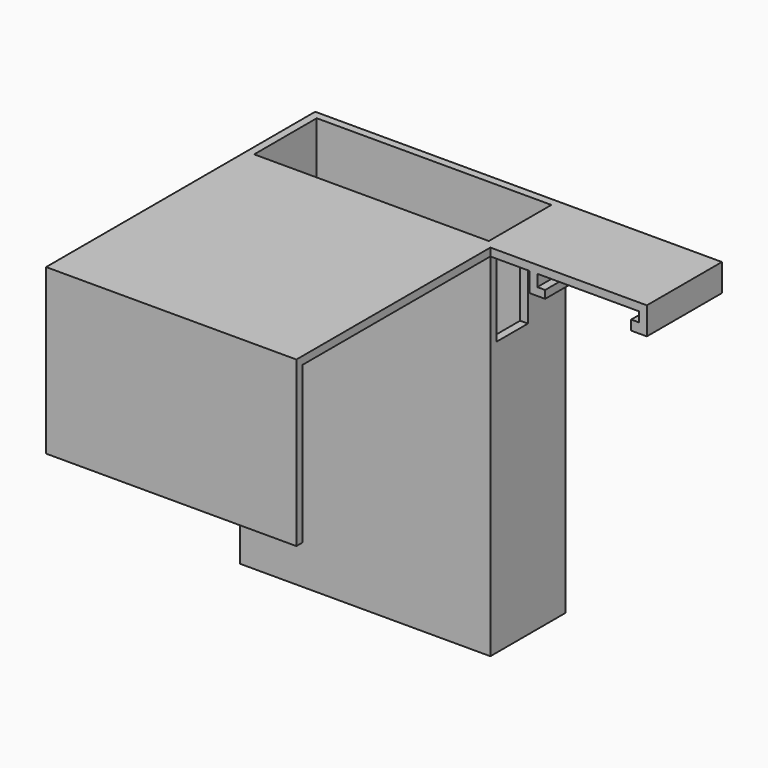
from build123d import *

# Parameters (mm, degrees)
F0_W      = 64
F0_H      = 64
F1_DEPTH  = 2
F2_W      = 64
F2_H      = 2
F3_DEPTH  = 25
F4_W      = 64
F4_H      = 2
F5_DEPTH  = 90
F6_W      = 2
F6_H      = 92
F7_DEPTH  = 22
F8_W      = 2
F8_H      = 92
F9_DEPTH  = 22
F10_W     = 2
F10_H     = 92
F11_DEPTH = 60
F12_W     = 60
F12_H     = 2
F13_DEPTH = 20
F14_W     = 10
F14_H     = 20
F15_DEPTH = 25
F16_W     = 20
F16_H     = 20
F17_DEPTH = 25
F3_FACE_W = 64
F3_FACE_H = 2
F18_DEPTH = 15
F19_W     = 30
F19_H     = 2
F20_DEPTH = 2
F22_DEPTH = 40
F23_W     = 2
F23_H     = 24
F24_DEPTH = 5
F25_W     = 24
F25_H     = 2
F26_DEPTH = 2
F27_W     = 24
F27_H     = 2.5
F28_DEPTH = 2


with BuildPart() as f1:
    # F0 (on Top) → F1 (new body)
    with BuildSketch(Plane.XY):
        Rectangle(F0_W, F0_H)
    extrude(amount=F1_DEPTH)

    # F2 (on face) → F3 (join)
    with BuildSketch(Plane(origin=(0, 0, 0), x_dir=(1, 0, 0), z_dir=(0, 0, -1))):
        with Locations((0, 31)):
            Rectangle(F2_W, F2_H)
    extrude(amount=F3_DEPTH)

    # F4 (on face) → F5 (join)
    with BuildSketch(Plane(origin=(0, 0, 0), x_dir=(1, 0, 0), z_dir=(0, 0, -1))):
        with Locations((0, -31)):
            Rectangle(F4_W, F4_H)
    extrude(amount=F5_DEPTH)

    # F6 (on face) → F7 (join)
    with BuildSketch(Plane(origin=(0, 32, 0), x_dir=(-1, 0, 0), z_dir=(0, 1, 0))):
        with Locations((-31, -44)):
            Rectangle(F6_W, F6_H)
    extrude(amount=F7_DEPTH)

    # F8 (on face) → F9 (join)
    with BuildSketch(Plane(origin=(0, 32, 0), x_dir=(-1, 0, 0), z_dir=(0, 1, 0))):
        with Locations((31, -44)):
            Rectangle(F8_W, F8_H)
    extrude(amount=F9_DEPTH)

    # F10 (on face) → F11 (join)
    with BuildSketch(Plane(origin=(30, 0, 0), x_dir=(0, -1, 0), z_dir=(-1, 0, 0))):
        with Locations((-53, -44)):
            Rectangle(F10_W, F10_H)
    extrude(amount=F11_DEPTH)

    # F12 (on face) → F13 (join)
    with BuildSketch(Plane(origin=(0, 32, 0), x_dir=(-1, 0, 0), z_dir=(0, 1, 0))):
        with Locations((0, -89)):
            Rectangle(F12_W, F12_H)
    extrude(amount=F13_DEPTH)

    # F14 (on face) → F15 (cut)
    with BuildSketch(Plane.YZ.offset(32)):
        with Locations((37, -10)):
            Rectangle(F14_W, F14_H)
    extrude(amount=-F15_DEPTH, mode=Mode.SUBTRACT)

    # F16 (on face) → F17 (cut)
    with BuildSketch(Plane(origin=(0, 0, -90), x_dir=(1, 0, 0), z_dir=(0, 0, -1))):
        with Locations((-20, -42)):
            Rectangle(F16_W, F16_H)
    extrude(amount=-F17_DEPTH, mode=Mode.SUBTRACT)

    # F3_face (on face) → F18 (join)
    with BuildSketch(Plane(origin=(0, -31, -25), x_dir=(1, 0, 0), z_dir=(0, 0, -1))):
        Rectangle(F3_FACE_W, F3_FACE_H)
    extrude(amount=F18_DEPTH)

    # F19 (on face) → F20 (cut)
    with BuildSketch(Plane(origin=(0, 54, 0), x_dir=(-1, 0, 0), z_dir=(0, 1, 0))):
        with Locations((-15, -49)):
            Rectangle(F19_W, F19_H)
    extrude(amount=-F20_DEPTH, mode=Mode.SUBTRACT)

    # F21 (on face) → F22 (join)
    with BuildSketch(Plane.YZ.offset(32)):
        Polygon((30, 2), (30, 0), (32, 0), (42, 0), (54, 0), (54, 2), align=None)
    extrude(amount=F22_DEPTH)

    # F23 (on face) → F24 (join)
    with BuildSketch(Plane(origin=(0, 0, 0), x_dir=(1, 0, 0), z_dir=(0, 0, -1))):
        with Locations((71, -42)):
            Rectangle(F23_W, F23_H)
        Polygon((42, -54), (44, -54), (44, -47.911588), (44, -30), (42, -30), align=None)
    extrude(amount=F24_DEPTH)

    # F25 (on face) → F26 (join)
    with BuildSketch(Plane.YZ.offset(44)):
        with Locations((42, -4)):
            Rectangle(F25_W, F25_H)
    extrude(amount=F26_DEPTH)

    # F27 (on face) → F28 (join)
    with BuildSketch(Plane(origin=(70, 0, 0), x_dir=(0, -1, 0), z_dir=(-1, 0, 0))):
        with Locations((-42, -3.75)):
            Rectangle(F27_W, F27_H)
    extrude(amount=F28_DEPTH)


solid = f1.part
